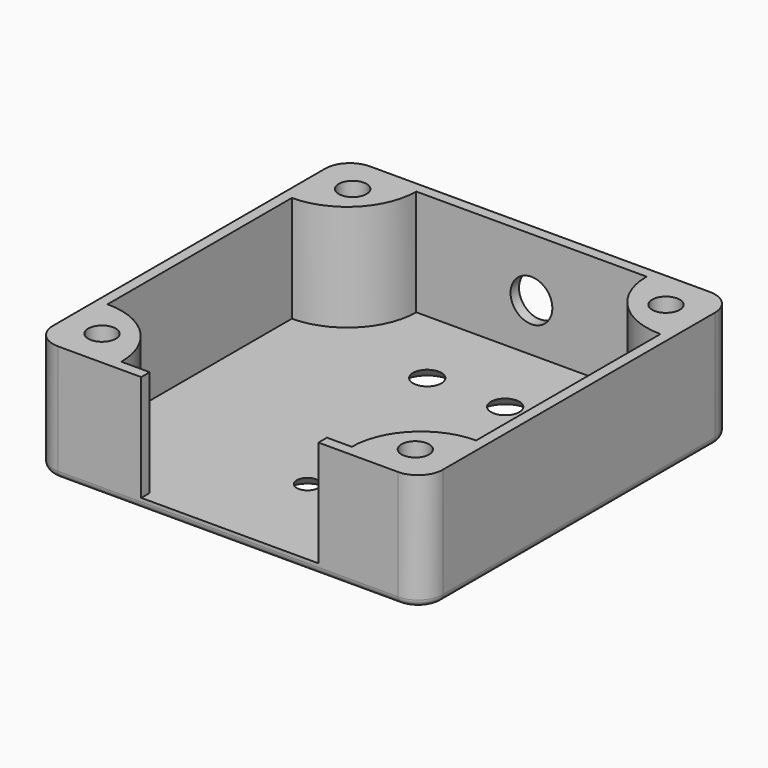
from build123d import *

# Parameters (mm, degrees)
PAD_DEPTH               = 16.5
POCKET_DEPTH            = 15
SKETCH002_R             = 1.95
PAD001_DEPTH            = 15
SKETCH002_MIRRORED_2_R  = 1.95
PAD001_MIRRORED_2_DEPTH = 15
FILLET_R                = 1
SKETCH008_W             = 25
SKETCH008_H             = 15
POCKET003_DEPTH         = 5
SKETCH010_R             = 1.5
SKETCH010_R_2           = 2
POCKET004_DEPTH         = 5
SKETCH011_R             = 2.95
POCKET005_DEPTH         = 5
CHAMFER_SIZE            = 1.499


with BuildPart() as part:
    # Sketch → Pad (new body)
    with BuildSketch(Plane.XY):
        with BuildLine():
            Line((-24, 27.5), (24, 27.5))
            ThreePointArc((27.5, 24), (26.474874, 26.474874), (24, 27.5))
            Line((27.5, 24), (27.5, -24))
            ThreePointArc((24, -27.5), (26.474874, -26.474874), (27.5, -24))
            Line((24, -27.5), (-24, -27.5))
            ThreePointArc((-27.5, -24), (-26.474874, -26.474874), (-24, -27.5))
            Line((-27.5, -24), (-27.5, 24))
            ThreePointArc((-24, 27.5), (-26.474874, 26.474874), (-27.5, 24))
        make_face()
    extrude(amount=PAD_DEPTH)

    # Sketch001 (on Face10 of Pad) → Pocket (cut)
    with BuildSketch(Plane.XY.offset(16.5)):
        with BuildLine():
            Line((-24.25, 26), (24.25, 26))
            ThreePointArc((26, 24.25), (25.487437, 25.487437), (24.25, 26))
            Line((26, 24.25), (26, -24.25))
            ThreePointArc((24.25, -26), (25.487437, -25.487437), (26, -24.25))
            Line((24.25, -26), (-24.25, -26))
            ThreePointArc((-26, -24.25), (-25.487437, -25.487437), (-24.25, -26))
            Line((-26, -24.25), (-26, 24.25))
            ThreePointArc((-24.25, 26), (-25.487437, 25.487437), (-26, 24.25))
        make_face()
    extrude(amount=-POCKET_DEPTH, mode=Mode.SUBTRACT)

    # Sketch002 (on Face19 of Pocket) → Pad001 (join)
    with BuildSketch(Plane.XY.offset(1.5)):
        with BuildLine():
            Line((-26, 16.25), (-26, 26))
            Line((-26, 26), (-16.25, 26))
            ThreePointArc((-26, 16.25), (-19.105709, 19.105709), (-16.25, 26))
        make_face()
        with Locations((-22.1, 22.1)):
            Circle(SKETCH002_R, mode=Mode.SUBTRACT)
    pad001 = extrude(amount=PAD001_DEPTH)

    # Sketch002 Mirrored 2 → Pad001 Mirrored 2 (add)
    with BuildSketch(Plane(origin=(0, 0, 1.5), x_dir=(-1, 0, 0), z_dir=(0, 0, -1))):
        with BuildLine():
            Line((-26, 16.25), (-26, 26))
            Line((-26, 26), (-16.25, 26))
            ThreePointArc((-26, 16.25), (-19.105709, 19.105709), (-16.25, 26))
        make_face()
        with Locations((-22.1, 22.1)):
            Circle(SKETCH002_MIRRORED_2_R, mode=Mode.SUBTRACT)
    pad001_mirrored_2 = extrude(amount=-PAD001_MIRRORED_2_DEPTH)

    # Mirrored001: Pad001, Pad001 Mirrored 2 across Sketch002 H_Axis
    add(pad001.mirror(Plane(origin=(0, 0, 1.5), x_dir=(0, 0, 1), z_dir=(0, 1, 0))))
    add(pad001_mirrored_2.mirror(Plane(origin=(0, 0, 1.5), x_dir=(0, 0, 1), z_dir=(0, 1, 0))))

    # Fillet
    fillet_edges = [part.edges().sort_by_distance(p)[0] for p in [
        (-27.5, 0, 0),
        (-26.474874, 26.474874, 0),
        (0, 27.5, 0),
        (26.474874, 26.474874, 0),
        (27.5, 0, 0),
        (26.474874, -26.474874, 0),
        (0, -27.5, 0),
        (-26.474874, -26.474874, 0),
    ]]
    fillet(fillet_edges, radius=FILLET_R)

    # Sketch008 (on Face7 of Fillet) → Pocket003 (cut)
    with BuildSketch(Plane.XZ.offset(27.5)):
        with Locations((0.25, 9)):
            Rectangle(SKETCH008_W, SKETCH008_H)
    extrude(amount=-POCKET003_DEPTH, mode=Mode.SUBTRACT)

    # Sketch010 (on Face35 of Pocket003) → Pocket004 (cut)
    with BuildSketch(Plane.XY.offset(1.5)):
        with Locations((0, -13.5)):
            Circle(SKETCH010_R)
        with Locations((-5.5, 14.5)):
            Circle(SKETCH010_R_2)
        with Locations((5.5, 14.5)):
            Circle(SKETCH010_R_2)
    extrude(amount=-POCKET004_DEPTH, mode=Mode.SUBTRACT)

    # Sketch011 (on Face10 of Pocket004) → Pocket005 (cut)
    with BuildSketch(Plane(origin=(0, 27.5, 0), x_dir=(-1, 0, 0), z_dir=(0, 1, 0))):
        with Locations((0, 8.25)):
            Circle(SKETCH011_R)
    extrude(amount=-POCKET005_DEPTH, mode=Mode.SUBTRACT)

    # Chamfer
    chamfer_edges = [part.edges().sort_by_distance(p)[0] for p in [
        (3.5, 14.5, 0),
        (-7.5, 14.5, 0),
        (-1.5, -13.5, 0),
    ]]
    chamfer(chamfer_edges, length=CHAMFER_SIZE)


solid = part.part
